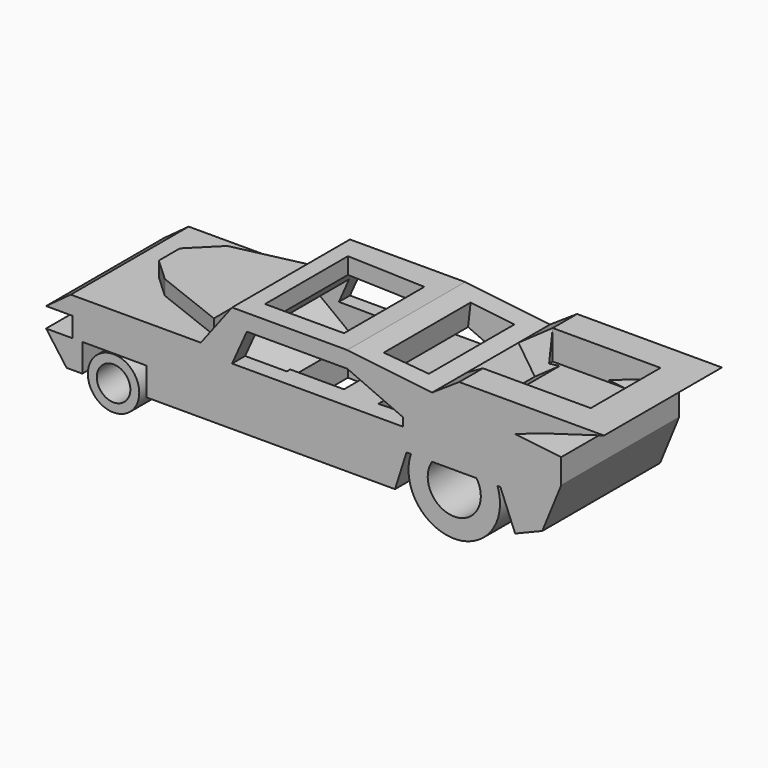
from build123d import *

# Parameters (mm, degrees)
F0_R      = 4.4319021296
F1_DEPTH  = 25.4
F0_R_2    = 7.8883279383
F3_DEPTH  = 25.4
F5_DEPTH  = 25.4
F7_DEPTH  = 25.4
F9_DEPTH  = 25.4
F11_DEPTH = 25.4
F13_DEPTH = 25.4
F14_R     = 2.8934233722
F15_DEPTH = 25.4
F17_DEPTH = 2.54
F18_W     = 18.5838788748
F18_H     = 15.0373396464
F19_DEPTH = 5.08
F20_DEPTH = 10.16
F22_DEPTH = 5.08
F24_DEPTH = 25.4


with BuildPart() as f1:
    # F0 (on Front) → F1 (new body)
    with BuildSketch(Plane.XZ):
        with Locations((-28.7979263812, 3.972127568)):
            Circle(F0_R)
    extrude(amount=F1_DEPTH)

    # F14 (on face) → F15 (cut)
    with BuildSketch(Plane.XZ.offset(25.4)):
        with Locations((-28.7979263812, 3.972127568)):
            Circle(F14_R)
    extrude(amount=-F15_DEPTH, mode=Mode.SUBTRACT)


with BuildPart() as f1b:
    # F0 (on Front) → F1, piece 2 (new body)
    with BuildSketch(Plane.XZ):
        with Locations((29.9328211695, 7.3768086731)):
            Circle(F0_R_2)
    extrude(amount=F1_DEPTH)

    # F2 (on Front) → F3 (join)
    with BuildSketch(Plane.XZ):
        Polygon((-23.1234580278, 8.5117025301), (-23.1234580278, 3.6884043366), (19.718773663, 3.6884043366), (21.7048432678, 9.9303191528), (37.8770716488, 9.9303191528), (40.4305867851, 3.6884043366), (45.1037334939, 5.6001495632), (48.3748391271, 13.6187234893), (48.3748391271, 17.8745742887), (11.4907994866, 22.1304260194), (-8.3698406816, 22.1304260194), (-13.7605853379, 15.0373410434), (-36.1747331917, 15.0373410434), (-40.4305867851, 11.9163831696), (-35.8910113573, 11.9163831696), (-35.8910113573, 8.5117025301), (-40.4305867851, 8.5117025301), (-36.8935030616, 3.6884043366), (-34.1886691749, 3.6884043366), (-34.1886691749, 8.5117025301), align=None)
    extrude(amount=F3_DEPTH)

    # F4 (on Front) → F5 (join)
    with BuildSketch(Plane.XZ):
        Polygon((30.7839922607, 23.5490426421), (25.6769694388, 20.1443620026), (38.4445227683, 18.1582979858), (46.1050570011, 20.7118075341), (55.7516515255, 23.5490426421), align=None)
    extrude(amount=F5_DEPTH)

    # F6 (on face) → F7 (cut)
    with BuildSketch(Plane.XZ.offset(25.4)):
        Polygon((-5.8163292706, 19.2931909114), (-8.3698406816, 13.6187234893), (21.1373921484, 13.6187234893), (21.1373921484, 15.0373410434), (11.4907994866, 19.2931909114), align=None)
    extrude(amount=-F7_DEPTH, mode=Mode.SUBTRACT)

    # F8 (on face) → F9 (cut)
    with BuildSketch(Plane(origin=(-15.9666356705, 0, 12.1346432773), x_dir=(0, -1, 0), z_dir=(-0.7961621901, 0, 0.6050832728))):
        Polygon((22.5871372968, 10.1289832965), (2.4500952568, 10.1289832965), (2.3410865106, 3.6458623659), (22.5871372968, 3.6458623659), align=None)
    extrude(amount=-F9_DEPTH, mode=Mode.SUBTRACT)

    # F10 (on face) → F11 (cut)
    with BuildSketch(Plane(origin=(2.6709355753, 0, 23.1481028644), x_dir=(0.9934089328, 0, -0.1146241346), z_dir=(0.1146241346, 0, 0.9934089328))):
        Polygon((12.6866614446, -3.5465420224), (12.6866614446, -22.2722869366), (20.2912651002, -21.9885632396), (20.2912651002, -3.5465420224), align=None)
    extrude(amount=-F11_DEPTH, mode=Mode.SUBTRACT)

    # F12 (on face) → F13 (cut)
    with BuildSketch(Plane.XY.offset(22.1304260194)):
        Polygon((8.0861160532, -4.5395744964), (-5.5326065049, -3.972127568), (-5.5326065049, -21.8467023224), (8.0861160532, -21.8467023224), align=None)
    extrude(amount=-F13_DEPTH, mode=Mode.SUBTRACT)

    # F16 (on face) → F17 (join)
    with BuildSketch(Plane.XY.offset(15.0373410434)):
        Polygon((-13.7605853379, -22.5871372968), (-13.7605853379, -2.3410865106), (-25.5351066589, -4.9651586451), (-30.0746820867, -9.5047336072), (-30.0746820867, -14.0443081036), (-26.1025540531, -17.7327133715), align=None)
    extrude(amount=F17_DEPTH)

    # F18 (on face) → F19 (join)
    with BuildSketch(Plane.XY.offset(23.5490426421)):
        with Locations((40.0759316981, -12.7675530966)):
            Rectangle(F18_W, F18_H)
    extrude(amount=F19_DEPTH)

    # F20 (cut): a face of the model
    f20_faces = [f1b.faces().sort_by_distance(p)[0] for p in [
        (40.0759316981, -12.7675530966, 28.6290426421),
    ]]
    extrude(f20_faces, amount=-F20_DEPTH, mode=Mode.SUBTRACT)

    # F21 (on face) → F22 (cut)
    with BuildSketch(Plane(origin=(-1.3967945518, 0, 2.0951925918), x_dir=(0.8320503877, 0, 0.5547000562), z_dir=(-0.5547000562, 0, 0.8320503877))):
        Polygon((38.676487972, -5.2488832735), (33.0752558091, -6.8093617447), (33.0752558091, -17.8745742887), (38.676487972, -20.2862229198), align=None)
    extrude(amount=-F22_DEPTH, mode=Mode.SUBTRACT)

    # F23 (on face) → F24 (cut)
    with BuildSketch(Plane.XZ.offset(25.4)):
        with BuildLine():
            Line((33.7630845606, 9.9303191528), (26.1025559157, 9.9303191528))
            ThreePointArc((26.1025559157, 9.9303191528), (29.9328202382, 2.8467516557), (33.7630845606, 9.9303191528))
        make_face()
    extrude(amount=-F24_DEPTH, mode=Mode.SUBTRACT)


solid = Compound([f1.part, f1b.part])
